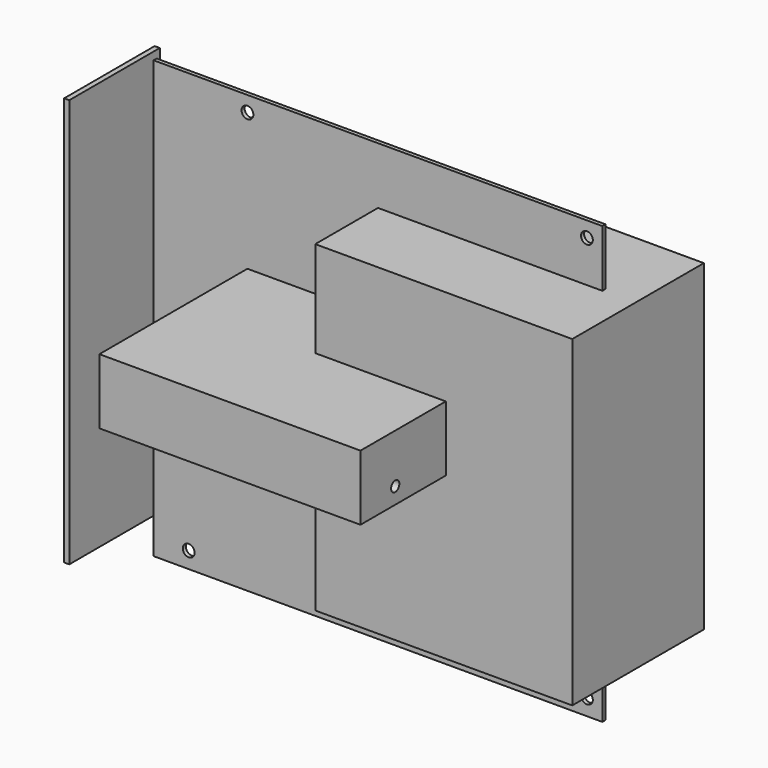
from build123d import *

# Parameters (mm, degrees)
SKETCH_W        = 174.6
SKETCH_H        = 169.85
SKETCH_R        = 2.3
PAD_DEPTH       = 1.5
SKETCH001_W     = 159
SKETCH001_H     = 44
PAD001_DEPTH    = 2
SKETCH042_W     = 64
SKETCH042_H     = 125.5
PAD017_DEPTH    = 100
SKETCH043_R     = 2
POCKET_DEPTH    = 5
SKETCH044_W     = 101.6
SKETCH044_H     = 147
PAD018_DEPTH    = 25.4
SKETCH045_W     = 45.794352
SKETCH045_H     = 8.488647
POCKET001_DEPTH = 5
SKETCH046_R     = 2
POCKET002_DEPTH = 101.601


with BuildPart() as obj1:
    # Sketch → Pad (new body)
    with BuildSketch(Plane.XZ):
        Rectangle(SKETCH_W, SKETCH_H)
        with Locations((-73.64, -78.575)):
            Circle(SKETCH_R, mode=Mode.SUBTRACT)
        with Locations((81.3, -78.575)):
            Circle(SKETCH_R, mode=Mode.SUBTRACT)
        with Locations((81.3, 78.925)):
            Circle(SKETCH_R, mode=Mode.SUBTRACT)
        with Locations((-50.78, 78.925)):
            Circle(SKETCH_R, mode=Mode.SUBTRACT)
    extrude(amount=PAD_DEPTH)

    # Sketch001 (on Face4 of Pad) → Pad001 (join)
    with BuildSketch(Plane(origin=(-87.3, 0, 0), x_dir=(0, 0, -1), z_dir=(-1, 0, 0))):
        with Locations((-8.425, 20.5)):
            Rectangle(SKETCH001_W, SKETCH001_H)
    extrude(amount=PAD001_DEPTH)


with BuildPart() as psu:
    # Sketch042 → Pad017 (new body)
    with BuildSketch(Plane.YZ):
        Rectangle(SKETCH042_W, SKETCH042_H)
    extrude(amount=PAD017_DEPTH)

    # Sketch043 (on Face5 of Pad017) → Pocket (cut)
    with BuildSketch(Plane(origin=(0, 0, 0), x_dir=(0, 1, 0), z_dir=(-1, 0, 0))):
        with Locations((-25.65, -56.5)):
            Circle(SKETCH043_R)
        with Locations((25.65, -56.5)):
            Circle(SKETCH043_R)
        with Locations((25.65, 56.5)):
            Circle(SKETCH043_R)
        with Locations((-25.65, 56.5)):
            Circle(SKETCH043_R)
    extrude(amount=-POCKET_DEPTH, mode=Mode.SUBTRACT)


with BuildPart() as obj2:
    # Sketch044 → Pad018 (new body)
    with BuildSketch(Plane.XY):
        Rectangle(SKETCH044_W, SKETCH044_H)
    extrude(amount=PAD018_DEPTH)

    # Sketch045 (on Face3 of Pad018) → Pocket001 (cut)
    with BuildSketch(Plane(origin=(0, 73.5, 0), x_dir=(-1, 0, 0), z_dir=(0, 1, 0))):
        with Locations((-19.708751, 4.2443235)):
            Rectangle(SKETCH045_W, SKETCH045_H)
    extrude(amount=-POCKET001_DEPTH, mode=Mode.SUBTRACT)

    # Sketch046 (on Face2 of Pocket001) → Pocket002 (cut, through all)
    with BuildSketch(Plane(origin=(-50.8, 0, 0), x_dir=(0, -1, 0), z_dir=(-1, 0, 0))):
        with Locations((-45, 6.35)):
            Circle(SKETCH046_R)
        with Locations((56.6, 6.35)):
            Circle(SKETCH046_R)
    extrude(amount=-POCKET002_DEPTH, mode=Mode.SUBTRACT)


solid = Compound([obj1.part, psu.part, obj2.part])
